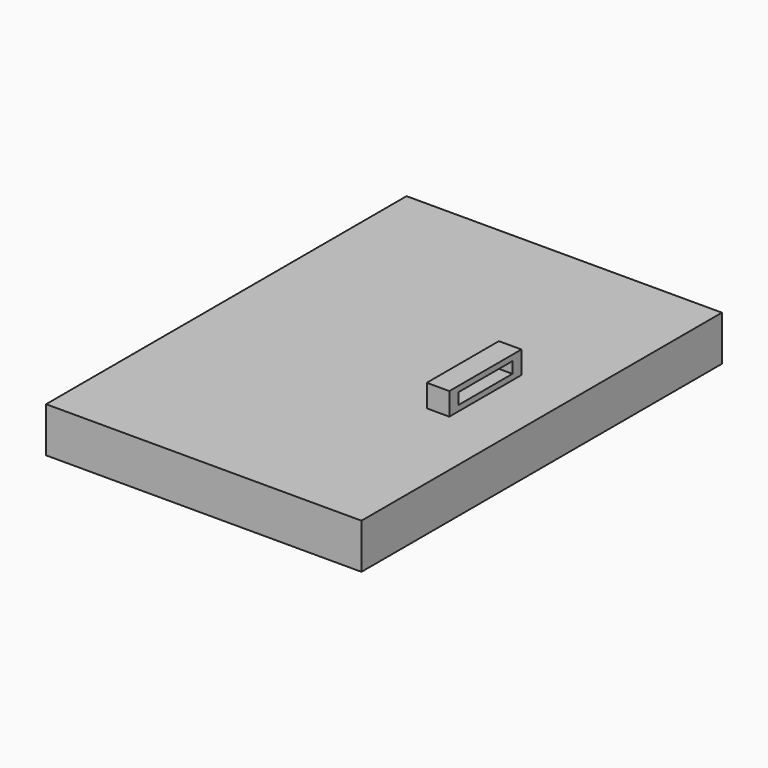
from build123d import *

# Parameters (mm, degrees)
F0_W     = 88.9
F0_H     = 127
F1_DEPTH = 12.7
F2_DEPTH = 6.35
F4_DEPTH = 25.4


with BuildPart() as f1:
    # F0 (on Top) → F1 (new body)
    with BuildSketch(Plane.XY):
        Rectangle(F0_W, F0_H)
        Polygon((28.575, 12.7), (28.575, -12.7), (22.225, -12.7), (22.225, 0), (22.225, 12.7), align=None, mode=Mode.SUBTRACT)
    extrude(amount=-F1_DEPTH)


with BuildPart() as f2:
    # F0 (on Top) → F2 (new body)
    with BuildSketch(Plane.XY):
        Polygon((22.225, -12.7), (28.575, -12.7), (28.575, 12.7), (22.225, 12.7), (22.225, 0), align=None)
    extrude(amount=F2_DEPTH)

    # F3 (on face) → F4 (cut)
    with BuildSketch(Plane(origin=(22.225, 0, 0), x_dir=(0, -1, 0), z_dir=(-1, 0, 0))):
        Polygon((9.525, 1.5875), (9.525, 4.7625), (-9.525, 4.7625), (-9.525, 1.5875), (0, 1.5875), align=None)
    extrude(amount=-F4_DEPTH, mode=Mode.SUBTRACT)


solid = Compound([f1.part, f2.part])
